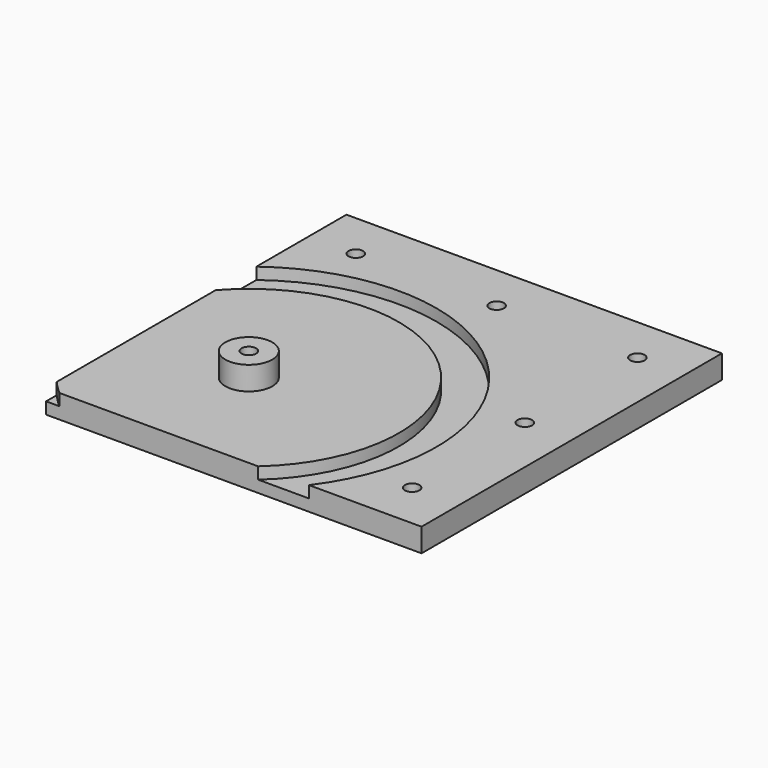
from build123d import *

# Parameters (mm, degrees)
SKETCH_W        = 160
SKETCH_H        = 160
PAD_DEPTH       = 10
SKETCH001_R     = 80
SKETCH001_R_2   = 64
POCKET_DEPTH    = 5
SKETCH002_R     = 3.1
POCKET001_DEPTH = 10
SKETCH003_R     = 10
PAD001_DEPTH    = 10
SKETCH004_R     = 3.1
POCKET002_DEPTH = 14


with BuildPart() as part:
    # Sketch → Pad (new body)
    with BuildSketch(Plane.XY):
        with Locations((80, 80)):
            Rectangle(SKETCH_W, SKETCH_H)
    extrude(amount=PAD_DEPTH)

    # Sketch001 (on Face6 of Pad) → Pocket (cut)
    with BuildSketch(Plane.XY.offset(10)):
        with Locations((48, 48)):
            Circle(SKETCH001_R)
        with Locations((48, 48)):
            Circle(SKETCH001_R_2, mode=Mode.SUBTRACT)
    extrude(amount=-POCKET_DEPTH, mode=Mode.SUBTRACT)

    # Sketch002 (on Face5 of Pocket) → Pocket001 (cut)
    with BuildSketch(Plane.XY.offset(10)):
        with Locations((20, 140)):
            Circle(SKETCH002_R)
        with Locations((80, 140)):
            Circle(SKETCH002_R)
        with Locations((140, 140)):
            Circle(SKETCH002_R)
        with Locations((140, 80)):
            Circle(SKETCH002_R)
        with Locations((140, 20)):
            Circle(SKETCH002_R)
    extrude(amount=-POCKET001_DEPTH, mode=Mode.SUBTRACT)

    # Sketch003 (on Face9 of Pocket001) → Pad001 (join)
    with BuildSketch(Plane.XY.offset(10)):
        with Locations((48, 48)):
            Circle(SKETCH003_R)
    extrude(amount=PAD001_DEPTH)

    # Sketch004 (on Face21 of Pad001) → Pocket002 (cut)
    with BuildSketch(Plane.XY.offset(20)):
        with Locations((48, 48)):
            Circle(SKETCH004_R)
    extrude(amount=-POCKET002_DEPTH, mode=Mode.SUBTRACT)


solid = part.part
